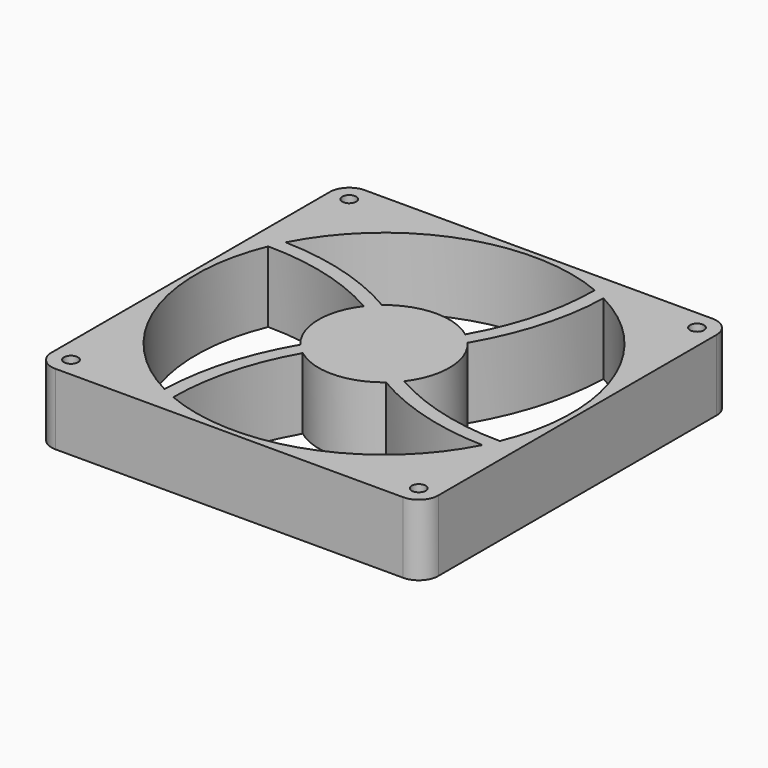
from build123d import *

# Parameters (mm, degrees)
F0_R     = 2.5
F1_DEPTH = 25.5


with BuildPart() as f1:
    # F0 (on Top) → F1 (new body)
    with BuildSketch(Plane.XY):
        with BuildLine():
            ThreePointArc((0, 7), (2.050253, 2.050253), (7, 0))
            Line((7, 0), (132, 0))
            ThreePointArc((132, 0), (136.949747, 2.050253), (139, 7))
            Line((139, 7), (139, 132))
            ThreePointArc((139, 132), (136.949747, 136.949747), (132, 139))
            Line((132, 139), (7, 139))
            ThreePointArc((7, 139), (2.050253, 136.949747), (0, 132))
            Line((0, 132), (0, 7))
        make_face()
        with Locations((7, 7)):
            Circle(F0_R, mode=Mode.SUBTRACT)
        with BuildLine():
            ThreePointArc((50.821473, 83.760527), (46.006593, 68.943371), (51.517802, 54.37087))
            ThreePointArc((51.517802, 54.37087), (42.227839, 32.736016), (38.644197, 9.465265))
            ThreePointArc((38.644197, 9.465265), (6.120443, 46.277558), (7.1618, 95.3882))
            ThreePointArc((7.1618, 95.3882), (29.747149, 92.411166), (50.821473, 83.760527))
        make_face(mode=Mode.SUBTRACT)
        with BuildLine():
            ThreePointArc((43.6118, 7.1618), (46.588834, 29.747149), (55.239473, 50.821473))
            ThreePointArc((55.239473, 50.821473), (70.056629, 46.006593), (84.62913, 51.517802))
            ThreePointArc((84.62913, 51.517802), (106.263984, 42.227839), (129.534735, 38.644197))
            ThreePointArc((129.534735, 38.644197), (92.722442, 6.120443), (43.6118, 7.1618))
        make_face(mode=Mode.SUBTRACT)
        with Locations((132, 7)):
            Circle(F0_R, mode=Mode.SUBTRACT)
        with Locations((7, 132)):
            Circle(F0_R, mode=Mode.SUBTRACT)
        with BuildLine():
            ThreePointArc((9.465265, 100.355803), (46.277558, 132.879557), (95.3882, 131.8382))
            ThreePointArc((95.3882, 131.8382), (92.411166, 109.252851), (83.760527, 88.178527))
            ThreePointArc((83.760527, 88.178527), (68.943371, 92.993407), (54.37087, 87.482198))
            ThreePointArc((54.37087, 87.482198), (32.736016, 96.772161), (9.465265, 100.355803))
        make_face(mode=Mode.SUBTRACT)
        with BuildLine():
            ThreePointArc((88.178527, 55.239473), (92.993407, 70.056629), (87.482198, 84.62913))
            ThreePointArc((87.482198, 84.62913), (96.772161, 106.263984), (100.355803, 129.534735))
            ThreePointArc((100.355803, 129.534735), (132.879557, 92.722442), (131.8382, 43.6118))
            ThreePointArc((131.8382, 43.6118), (109.252851, 46.588834), (88.178527, 55.239473))
        make_face(mode=Mode.SUBTRACT)
        with Locations((132, 132)):
            Circle(F0_R, mode=Mode.SUBTRACT)
        with BuildLine():
            ThreePointArc((0, 7), (2.050253, 2.050253), (7, 0))
            Line((7, 0), (132, 0))
            ThreePointArc((132, 0), (136.949747, 2.050253), (139, 7))
            Line((139, 7), (139, 132))
            ThreePointArc((139, 132), (136.949747, 136.949747), (132, 139))
            Line((132, 139), (7, 139))
            ThreePointArc((7, 139), (2.050253, 136.949747), (0, 132))
            Line((0, 132), (0, 7))
        make_face()
        with Locations((7, 7)):
            Circle(F0_R, mode=Mode.SUBTRACT)
        with BuildLine():
            ThreePointArc((50.821473, 83.760527), (46.006593, 68.943371), (51.517802, 54.37087))
            ThreePointArc((51.517802, 54.37087), (42.227839, 32.736016), (38.644197, 9.465265))
            ThreePointArc((38.644197, 9.465265), (6.120443, 46.277558), (7.1618, 95.3882))
            ThreePointArc((7.1618, 95.3882), (29.747149, 92.411166), (50.821473, 83.760527))
        make_face(mode=Mode.SUBTRACT)
        with BuildLine():
            ThreePointArc((43.6118, 7.1618), (46.588834, 29.747149), (55.239473, 50.821473))
            ThreePointArc((55.239473, 50.821473), (70.056629, 46.006593), (84.62913, 51.517802))
            ThreePointArc((84.62913, 51.517802), (106.263984, 42.227839), (129.534735, 38.644197))
            ThreePointArc((129.534735, 38.644197), (92.722442, 6.120443), (43.6118, 7.1618))
        make_face(mode=Mode.SUBTRACT)
        with Locations((132, 7)):
            Circle(F0_R, mode=Mode.SUBTRACT)
        with Locations((7, 132)):
            Circle(F0_R, mode=Mode.SUBTRACT)
        with BuildLine():
            ThreePointArc((9.465265, 100.355803), (46.277558, 132.879557), (95.3882, 131.8382))
            ThreePointArc((95.3882, 131.8382), (92.411166, 109.252851), (83.760527, 88.178527))
            ThreePointArc((83.760527, 88.178527), (68.943371, 92.993407), (54.37087, 87.482198))
            ThreePointArc((54.37087, 87.482198), (32.736016, 96.772161), (9.465265, 100.355803))
        make_face(mode=Mode.SUBTRACT)
        with BuildLine():
            ThreePointArc((88.178527, 55.239473), (92.993407, 70.056629), (87.482198, 84.62913))
            ThreePointArc((87.482198, 84.62913), (96.772161, 106.263984), (100.355803, 129.534735))
            ThreePointArc((100.355803, 129.534735), (132.879557, 92.722442), (131.8382, 43.6118))
            ThreePointArc((131.8382, 43.6118), (109.252851, 46.588834), (88.178527, 55.239473))
        make_face(mode=Mode.SUBTRACT)
        with Locations((132, 132)):
            Circle(F0_R, mode=Mode.SUBTRACT)
    extrude(amount=F1_DEPTH)


solid = f1.part
